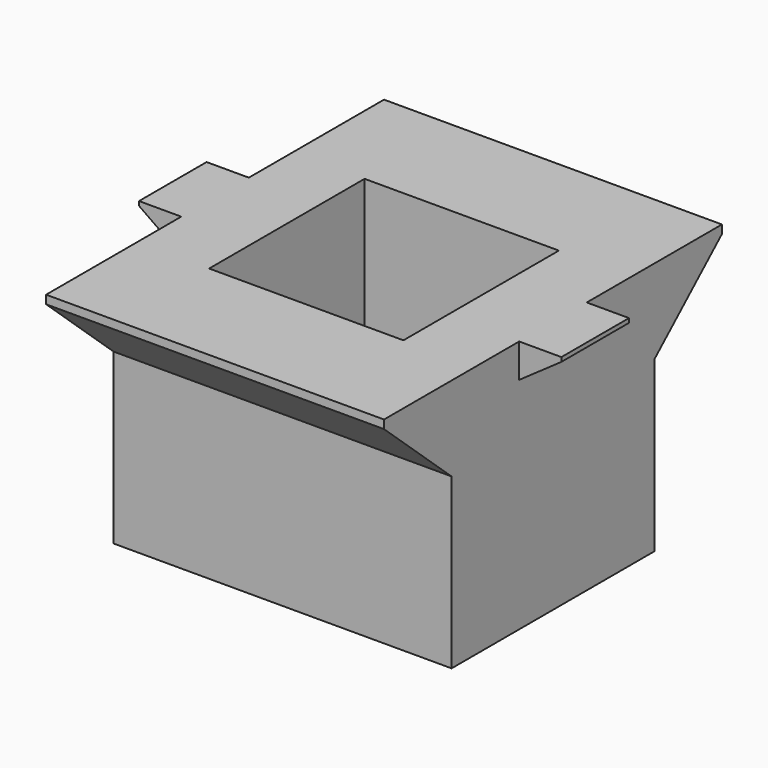
from build123d import *

# Parameters (mm, degrees)
F0_W      = 101.6
F0_H      = 76.2
F1_DEPTH  = 76.2
F2_W      = 58.42
F2_H      = 58.42
F3_DEPTH  = 228.6
F4_W      = 101.6
F4_H      = 25.4
F5_DEPTH  = 25.4
F6_W      = 101.6
F6_H      = 25.4
F7_DEPTH  = 25.4
F9_DEPTH  = 228.6
F10_W     = 25.4
F10_H     = 10.16
F11_DEPTH = 12.7
F13_DEPTH = 228.6
F14_W     = 25.4
F14_H     = 10.16
F15_DEPTH = 12.7
F17_DEPTH = 228.6


with BuildPart() as f1:
    # F0 (on Top) → F1 (new body)
    with BuildSketch(Plane.XY):
        Rectangle(F0_W, F0_H)
    extrude(amount=F1_DEPTH)

    # F2 (on face) → F3 (cut)
    with BuildSketch(Plane.XY.offset(76.2)):
        Rectangle(F2_W, F2_H)
    extrude(amount=-F3_DEPTH, mode=Mode.SUBTRACT)

    # F4 (on face) → F5 (join)
    with BuildSketch(Plane(origin=(0, 38.1, 0), x_dir=(-1, 0, 0), z_dir=(0, 1, 0))):
        with Locations((0, 63.5)):
            Rectangle(F4_W, F4_H)
    extrude(amount=F5_DEPTH)

    # F6 (on face) → F7 (join)
    with BuildSketch(Plane.XZ.offset(38.1)):
        with Locations((0, 63.5)):
            Rectangle(F6_W, F6_H)
    extrude(amount=F7_DEPTH)

    # F8 (on face) → F9 (cut)
    with BuildSketch(Plane.YZ.offset(50.8)):
        Polygon((-38.1, 50.8), (-63.5, 73.66), (-63.5, 50.8), align=None)
        Polygon((63.5, 50.8), (63.5, 73.66), (38.1, 50.8), align=None)
    extrude(amount=-F9_DEPTH, mode=Mode.SUBTRACT)

    # F10 (on face) → F11 (join)
    with BuildSketch(Plane.YZ.offset(50.8)):
        with Locations((0, 71.12)):
            Rectangle(F10_W, F10_H)
    extrude(amount=F11_DEPTH)

    # F12 (on face) → F13 (cut)
    with BuildSketch(Plane.XZ.offset(12.7)):
        Polygon((63.5, 66.04), (63.5, 74.93), (50.8, 66.04), align=None)
    extrude(amount=-F13_DEPTH, mode=Mode.SUBTRACT)

    # F14 (on face) → F15 (join)
    with BuildSketch(Plane(origin=(-50.8, 0, 0), x_dir=(0, -1, 0), z_dir=(-1, 0, 0))):
        with Locations((0, 71.12)):
            Rectangle(F14_W, F14_H)
    extrude(amount=F15_DEPTH)

    # F16 (on face) → F17 (cut)
    with BuildSketch(Plane(origin=(0, 12.7, 0), x_dir=(-1, 0, 0), z_dir=(0, 1, 0))):
        Polygon((63.5, 66.04), (63.5, 74.93), (50.8, 66.04), align=None)
    extrude(amount=-F17_DEPTH, mode=Mode.SUBTRACT)


solid = f1.part
